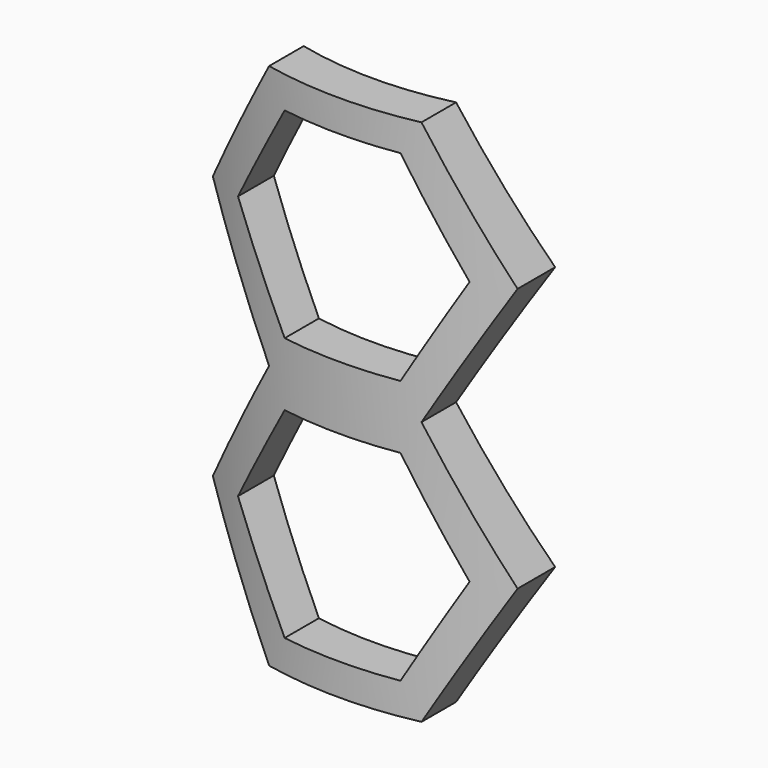
from build123d import *

# Parameters (mm, degrees)
F0_R     = 35
F0_R_2   = 31
F1_DEPTH = 50
F4_DEPTH = 50


with BuildPart() as f1:
    # F0 (on Top) → F1 (new body)
    with BuildSketch(Plane.XY):
        Circle(F0_R)
        Circle(F0_R_2, mode=Mode.SUBTRACT)
    extrude(amount=F1_DEPTH)

    # F3 (on offset) → F4 (intersect)
    with BuildSketch(Plane.XZ.offset(60)):
        Polygon((-7.216878, 25), (7.216878, 25), (14.433757, 37.5), (7.216878, 50), (-7.216878, 50), (-14.433757, 37.5), align=None)
        Polygon((5.484828, 47), (10.969655, 37.5), (5.484828, 28), (-5.484828, 28), (-10.969655, 37.5), (-5.484828, 47), align=None, mode=Mode.SUBTRACT)
        Polygon((7.216878, 0), (14.433757, 12.5), (7.216878, 25), (-7.216878, 25), (-14.433757, 12.5), (-7.216878, 0), align=None)
        Polygon((10.969655, 12.5), (5.484828, 3), (-5.484828, 3), (-10.969655, 12.5), (-5.484828, 22), (5.484828, 22), align=None, mode=Mode.SUBTRACT)
    extrude(amount=-F4_DEPTH, mode=Mode.INTERSECT)


solid = f1.part
